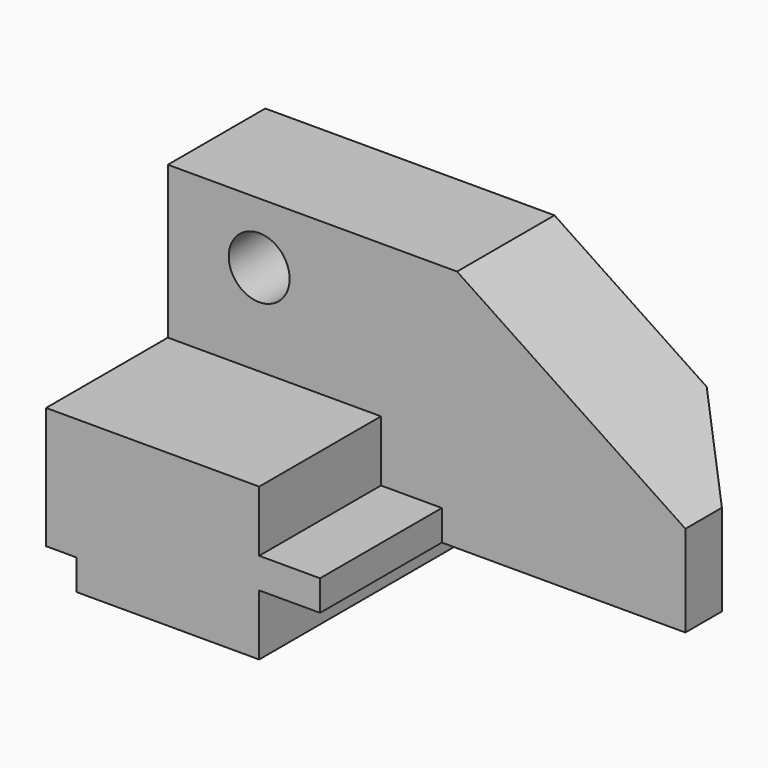
from build123d import *

# Parameters (mm, degrees)
F1_DEPTH  = 28.575
F3_DEPTH  = 31.75
F5_DEPTH  = 69.851
F6_R      = 6.35
F7_DEPTH  = 25.401
F9_DEPTH  = 25.401
F11_DEPTH = 25.401


with BuildPart() as f1:
    # F0 (on Front) → F1 (new body, symmetric)
    with BuildSketch(Plane.XZ):
        Polygon((0, 6.35), (0, 0), (101.6, 0), (101.6, 31.75), (44.45, 69.85), (-6.35, 69.85), (-6.35, 6.35), align=None)
    extrude(amount=F1_DEPTH, both=True)

    # F2 (on face) → F3 (cut)
    with BuildSketch(Plane.XZ.offset(28.575)):
        Polygon((38.1, 0), (101.6, 0), (101.6, 31.75), (44.45, 69.85), (-6.35, 69.85), (-6.35, 31.75), (38.1, 31.75), (38.1, 19.05), (50.8, 19.05), (50.8, 12.7), (38.1, 12.7), align=None)
    extrude(amount=-F3_DEPTH, mode=Mode.SUBTRACT)

    # F4 (on face) → F5 (cut, through all)
    with BuildSketch(Plane(origin=(0, 0, 0), x_dir=(1, 0, 0), z_dir=(0, 0, -1))):
        Polygon((85.725, -28.575), (101.6, -28.575), (101.6, -12.7), align=None)
    extrude(amount=-F5_DEPTH, mode=Mode.SUBTRACT)

    # F6 (on face) → F7 (cut, through all)
    with BuildSketch(Plane.XZ.offset(-3.175)):
        with Locations((12.699999, 50.8)):
            Circle(F6_R)
    extrude(amount=-F7_DEPTH, mode=Mode.SUBTRACT)

    # F8 (on face) → F9 (cut, through all)
    with BuildSketch(Plane.XZ.offset(-3.175)):
        Polygon((38.1, 12.7), (38.1, 0), (101.6, 0), (101.6, 12.7), (50.8, 12.7), align=None)
    extrude(amount=-F9_DEPTH, mode=Mode.SUBTRACT)

    # F10 (on face) → F11 (cut, through all)
    with BuildSketch(Plane.XZ.offset(-3.175)):
        Polygon((44.45, 69.85), (-6.35, 69.85), (-6.35, 63.5), (53.975, 63.5), align=None)
    extrude(amount=-F11_DEPTH, mode=Mode.SUBTRACT)


solid = f1.part
